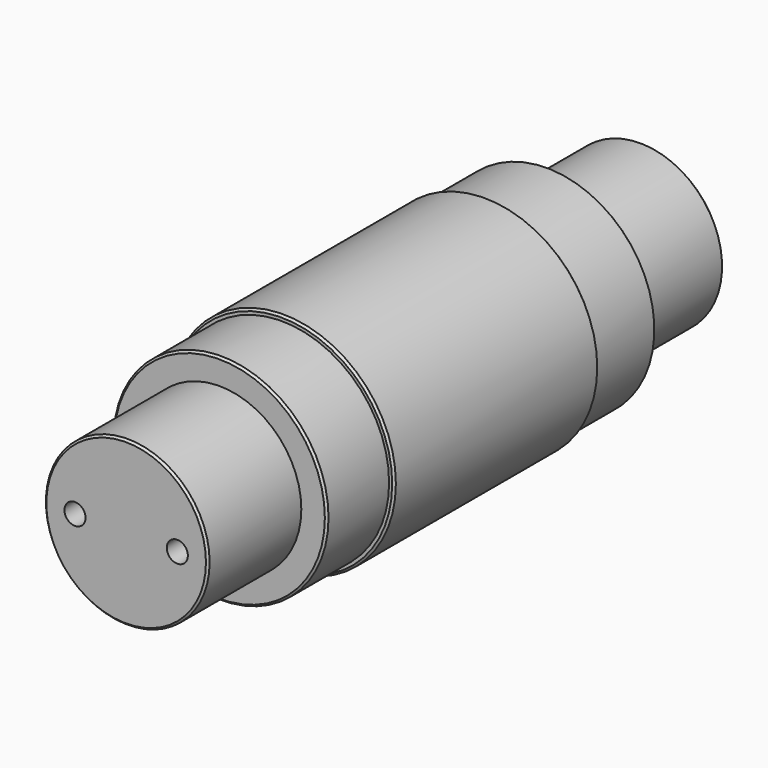
from build123d import *

# Parameters (mm, degrees)
F0_R      = 55
F1_DEPTH  = 125
F2_R      = 52.5
F3_DEPTH  = 38
F4_R      = 40
F5_DEPTH  = 57
F6_R      = 52.5
F7_DEPTH  = 38
F8_R      = 40
F9_DEPTH  = 57
F10_SIZE  = 1
F11_SIZE  = 1
F12_SIZE  = 1
F13_SIZE  = 1
F14_SIZE  = 1
F15_SIZE  = 1
F17_D     = 10.3
F17_DEPTH = 30.25
F17_TIP   = 3.094432188
F19_D     = 10.3
F19_DEPTH = 17.25
F19_TIP   = 3.094432188


with BuildPart() as f1:
    # F0 (on Front) → F1 (new body)
    with BuildSketch(Plane.XZ):
        Circle(F0_R)
    extrude(amount=-F1_DEPTH)

    # F2 (on face) → F3 (join)
    with BuildSketch(Plane.XZ):
        Circle(F2_R)
    extrude(amount=F3_DEPTH)

    # F4 (on face) → F5 (join)
    with BuildSketch(Plane.XZ.offset(38)):
        Circle(F4_R)
    extrude(amount=F5_DEPTH)

    # F6 (on face) → F7 (join)
    with BuildSketch(Plane(origin=(0, 125, 0), x_dir=(-1, 0, 0), z_dir=(0, 1, 0))):
        Circle(F6_R)
    extrude(amount=F7_DEPTH)

    # F8 (on face) → F9 (join)
    with BuildSketch(Plane(origin=(0, 163, 0), x_dir=(-1, 0, 0), z_dir=(0, 1, 0))):
        Circle(F8_R)
    extrude(amount=F9_DEPTH)

    # F10
    f10_edges = [f1.edges().sort_by_distance(p)[0] for p in [
        (-40, -95, 0),
    ]]
    chamfer(f10_edges, length=F10_SIZE)

    # F11
    f11_edges = [f1.edges().sort_by_distance(p)[0] for p in [
        (-52.5, -38, 0),
    ]]
    chamfer(f11_edges, length=F11_SIZE)

    # F12
    f12_edges = [f1.edges().sort_by_distance(p)[0] for p in [
        (-55, 0, 0),
    ]]
    chamfer(f12_edges, length=F12_SIZE)

    # F13
    f13_edges = [f1.edges().sort_by_distance(p)[0] for p in [
        (40, 220, 0),
    ]]
    chamfer(f13_edges, length=F13_SIZE)

    # F14
    f14_edges = [f1.edges().sort_by_distance(p)[0] for p in [
        (52.5, 163, 0),
    ]]
    chamfer(f14_edges, length=F14_SIZE)

    # F15
    f15_edges = [f1.edges().sort_by_distance(p)[0] for p in [
        (-55, 125, 0),
    ]]
    chamfer(f15_edges, length=F15_SIZE)

    # F17
    with Locations(Plane.XZ.offset(95)):
        with Locations((-25, 0), (25, 0)):
            Hole(F17_D / 2, depth=F17_DEPTH)
            with Locations((0, 0, -(F17_DEPTH + F17_TIP / 2))):  # 118° drill point
                Cone(0, F17_D / 2, F17_TIP, mode=Mode.SUBTRACT)

    # F19
    with Locations(Plane(origin=(0, 220, 0), x_dir=(-1, 0, 0), z_dir=(0, 1, 0))):
        with Locations((-25, 0), (25, 0)):
            Hole(F19_D / 2, depth=F19_DEPTH)
            with Locations((0, 0, -(F19_DEPTH + F19_TIP / 2))):  # 118° drill point
                Cone(0, F19_D / 2, F19_TIP, mode=Mode.SUBTRACT)


solid = f1.part
